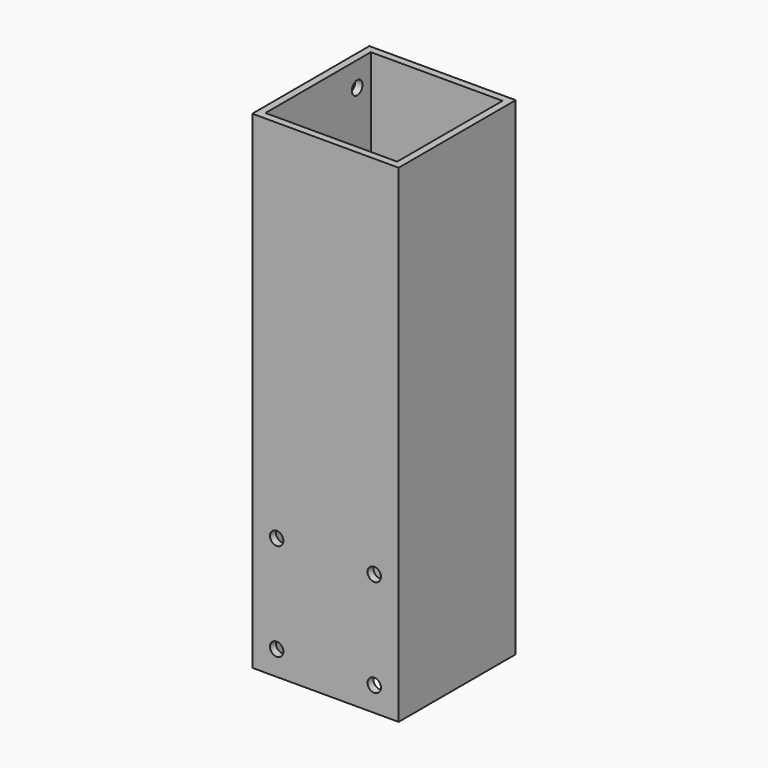
from build123d import *

# Parameters (mm, degrees)
SKETCH_W        = 60
SKETCH_H        = 60
SKETCH_W_2      = 54
SKETCH_H_2      = 54
PAD_DEPTH       = 200
SKETCH001_R     = 2.75
POCKET_DEPTH    = 3
SKETCH002_R     = 2.75
POCKET001_DEPTH = 3


with BuildPart() as part:
    # Sketch → Pad (new body)
    with BuildSketch(Plane.XY):
        Rectangle(SKETCH_W, SKETCH_H)
        Rectangle(SKETCH_W_2, SKETCH_H_2, mode=Mode.SUBTRACT)
    extrude(amount=PAD_DEPTH)

    # Sketch001 (on Face3 of Pad) → Pocket (cut)
    with BuildSketch(Plane.XZ.offset(30)):
        with Locations((-20, 50)):
            Circle(SKETCH001_R)
        with Locations((20, 50)):
            Circle(SKETCH001_R)
        with Locations((-20, 10)):
            Circle(SKETCH001_R)
        with Locations((20, 10)):
            Circle(SKETCH001_R)
    extrude(amount=-POCKET_DEPTH, mode=Mode.SUBTRACT)

    # Sketch002 (on Face2 of Pocket) → Pocket001 (cut)
    with BuildSketch(Plane(origin=(-30, 0, 0), x_dir=(0, -1, 0), z_dir=(-1, 0, 0))):
        with Locations((-20, 190)):
            Circle(SKETCH002_R)
        with Locations((20, 190)):
            Circle(SKETCH002_R)
        with Locations((-20, 150)):
            Circle(SKETCH002_R)
        with Locations((-60, 150)):
            Circle(SKETCH002_R)
        with Locations((-20, 110)):
            Circle(SKETCH002_R)
        with Locations((20, 110)):
            Circle(SKETCH002_R)
        with Locations((-20, 70)):
            Circle(SKETCH002_R)
        with Locations((20, 70)):
            Circle(SKETCH002_R)
    extrude(amount=-POCKET001_DEPTH, mode=Mode.SUBTRACT)


solid = part.part
